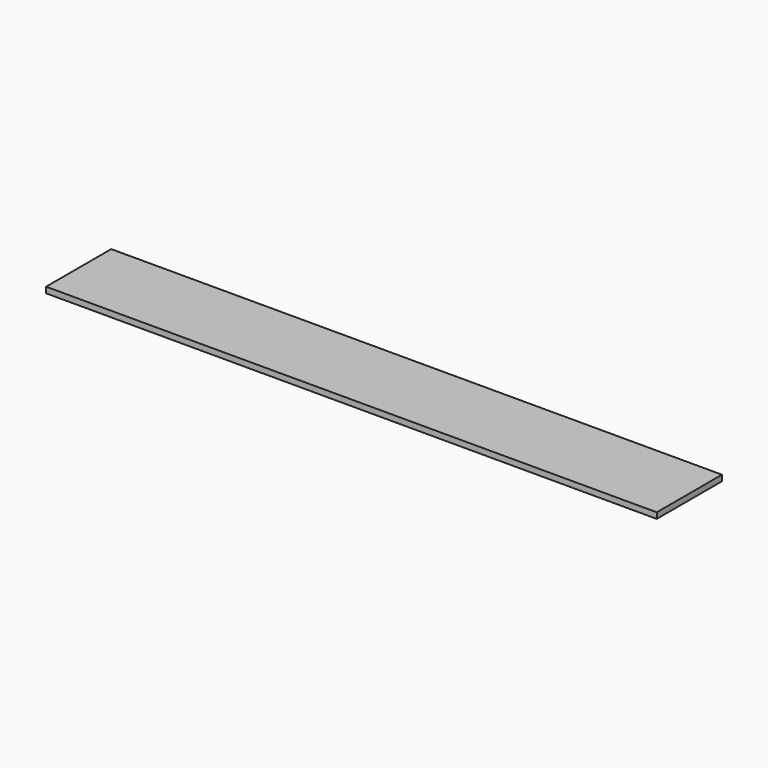
from build123d import *

# Parameters (mm, degrees)
F0_W     = 1400
F0_H     = 250
F1_DEPTH = 18


with BuildPart() as f1:
    # F0 (on Top) → F1 (new body)
    with BuildSketch(Plane.XY):
        Polygon((62.735137, 164.913694), (-57.475228, 285.124058), (-57.475228, 35.124058), (192.524772, 35.124058), align=None)
        with Locations((-757.475228, 160.124058)):
            Rectangle(F0_W, F0_H)
        Polygon((417.524772, 285.124058), (-57.475228, 285.124058), (62.735137, 164.913694), (192.524772, 35.124058), (417.524772, 35.124058), align=None)
        Polygon((62.735137, 164.913694), (-57.475228, 285.124058), (-57.475228, 35.124058), (192.524772, 35.124058), align=None)
    extrude(amount=F1_DEPTH)


solid = f1.part
